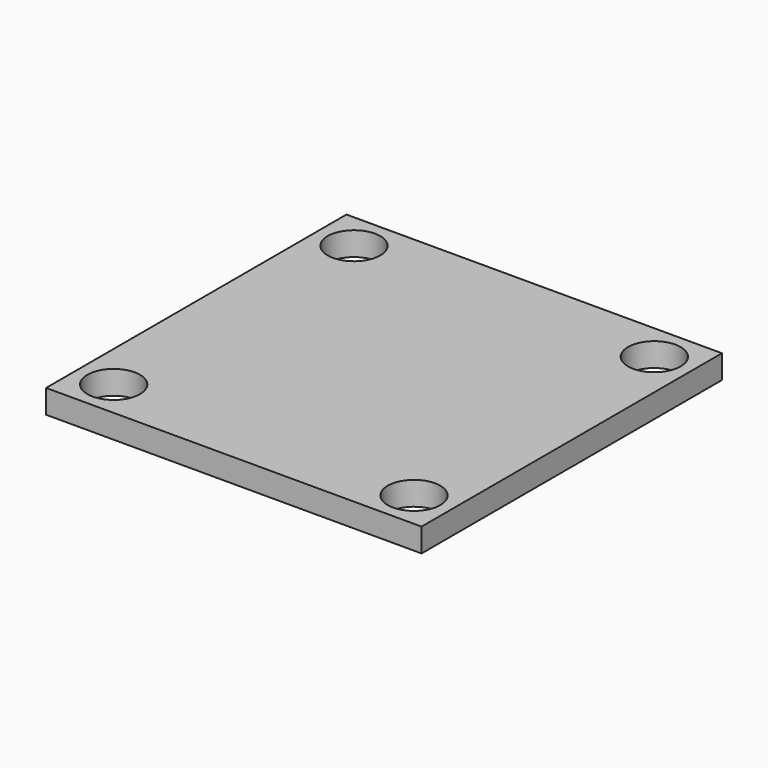
from build123d import *

# Parameters (mm, degrees)
SKETCH006_W                = 25.4
SKETCH006_H                = 25.4
PAD005_DEPTH               = 1.6
SKETCH005_R                = 1.778
POCKET_DEPTH               = 73.514281
SKETCH005_MIRRORED006_2_R  = 1.778
POCKET_MIRRORED006_2_DEPTH = 73.514281


with BuildPart() as part:
    # Sketch006 → Pad005 (new body)
    with BuildSketch(Plane.XY):
        Rectangle(SKETCH006_W, SKETCH006_H)
    extrude(amount=PAD005_DEPTH)

    # Sketch005 (on Face6 of Pad005) → Pocket (cut, through all)
    with BuildSketch(Plane.XY.offset(1.6)):
        with Locations((-10.16, 10.16)):
            Circle(SKETCH005_R)
    pocket = extrude(amount=-POCKET_DEPTH, mode=Mode.SUBTRACT)

    # Sketch005 Mirrored006 2 → Pocket Mirrored006 2 (cut, through all)
    with BuildSketch(Plane(origin=(0, 0, 1.6), x_dir=(-1, 0, 0), z_dir=(0, 0, -1))):
        with Locations((-10.16, 10.16)):
            Circle(SKETCH005_MIRRORED006_2_R)
    pocket_mirrored006_2 = extrude(amount=POCKET_MIRRORED006_2_DEPTH, mode=Mode.SUBTRACT)

    # Mirrored007: Pocket, Pocket Mirrored006 2 across XZ
    add(pocket.mirror(Plane.XZ), mode=Mode.SUBTRACT)
    add(pocket_mirrored006_2.mirror(Plane.XZ), mode=Mode.SUBTRACT)


solid = part.part
